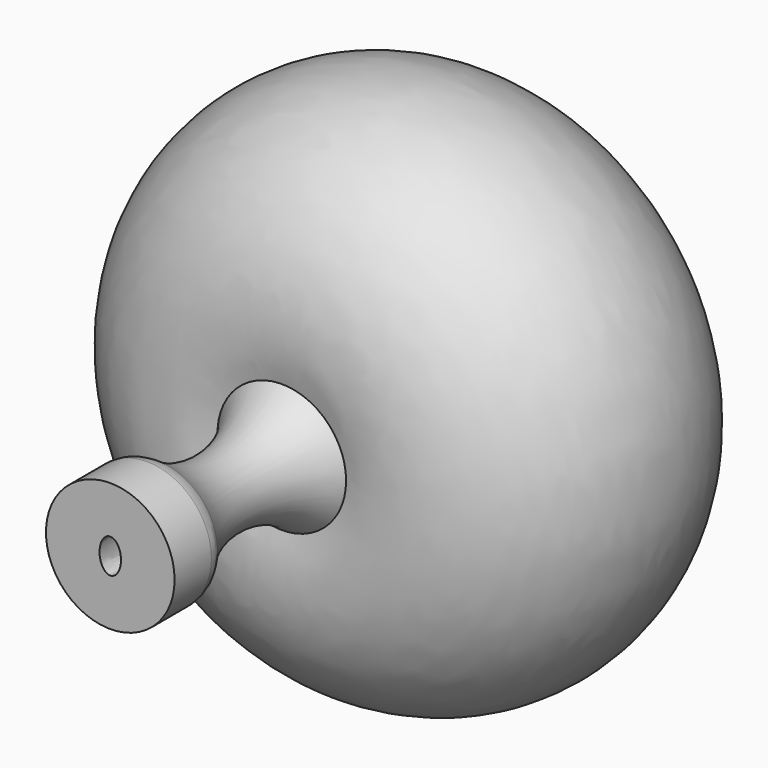
from build123d import *

# Parameters (mm, degrees)
F3_DEPTH = 55
F4_R     = 2


with BuildPart() as f1:
    # F0 (on Top) → F1 (revolve)
    with BuildSketch(Plane.XY):
        with BuildLine():
            Line((0, 46.460283), (0, 0))
            Line((0, 0), (6, 0))
            Line((6, 0), (6, 5))
            ThreePointArc((6, 5), (3.217798, 12.5), (6, 20))
            ThreePointArc((6, 20), (24.622782, 38.133214), (0, 46.460283))
        make_face()
    revolve(axis=Axis((0, 23.230141, 0), (0, 1, 0)))

    # F2 (on face) → F3 (cut)
    with BuildSketch(Plane.XZ):
        with BuildLine():
            add(Edge.make_bspline(
                [(1, 0), (1, 2.771281), (-0.5, 1.385641), (-2, 0), (-0.5, -1.385641), (1, -2.771281), (1, 0)],
                knots=[4.712389, 4.712389, 4.712389, 6.806784, 6.806784, 8.901179, 8.901179, 10.995574, 10.995574, 10.995574], degree=2, weights=[1, 0.5, 1, 0.5, 1, 0.5, 1]))
        make_face()
    extrude(amount=-F3_DEPTH, mode=Mode.SUBTRACT)

    # F4
    f4_edges = [f1.edges().sort_by_distance(p)[0] for p in [
        (-6, 5, 0),
    ]]
    fillet(f4_edges, radius=F4_R)


solid = f1.part
